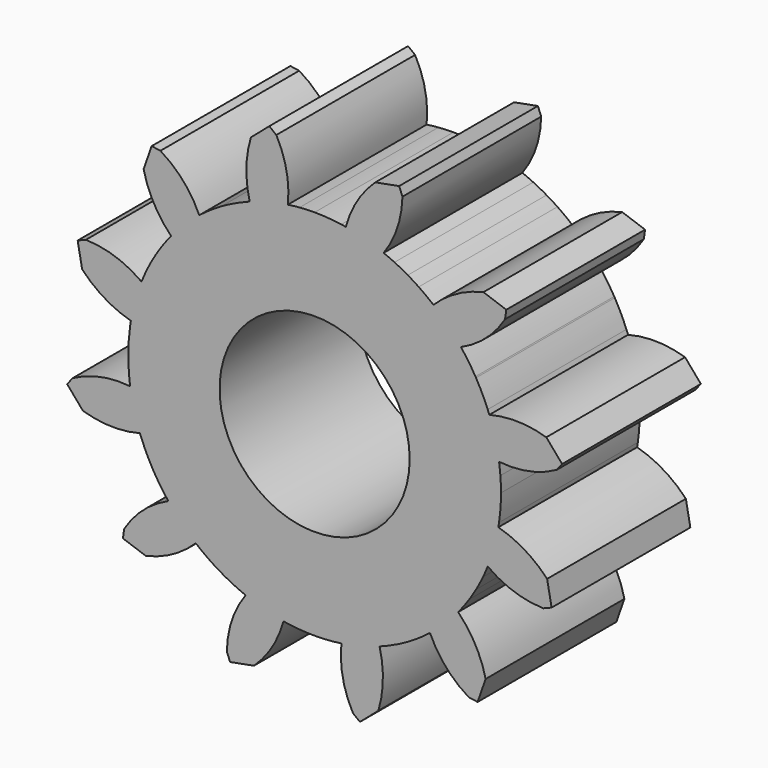
from build123d import *

# Parameters (mm, degrees)
F0_R     = 13.7004804212
F1_DEPTH = 25
F2_COUNT = 12


with BuildPart() as f1:
    # F0 (on Front) → F1 (new body)
    with BuildSketch(Plane.XZ):
        with BuildLine():
            ThreePointArc((5.1877617459, 15.4656955182), (1.3348337551, 15.7425763881), (-2.5179670171, 15.4639308632))
            ThreePointArc((-2.5179670171, 15.4639308632), (-5.3039752447, 14.9076599703), (-8.0156462094, 14.0602405167))
            ThreePointArc((-8.0156462094, 14.0602405167), (-10.1642311279, 13.1537985607), (-12.2260978725, 12.064413551))
            ThreePointArc((-12.2260978725, 12.064413551), (-14.7363892101, 10.3996164513), (-17.044498214, 8.4642237758))
            ThreePointArc((-17.044498214, 8.4642237758), (-19.1213988999, 6.2825744141), (-20.9409732492, 3.8821037136))
            ThreePointArc((-20.9409732492, 3.8821037136), (-22.4803390837, 1.292998939), (-23.7201379517, -1.4521803764))
            ThreePointArc((-23.7201379517, -1.4521803764), (-24.6447786512, -4.3189119634), (-25.2426333118, -7.2711450539))
            ThreePointArc((-25.2426333118, -7.2711450539), (-25.5061835733, -10.2717538785), (-25.4321150685, -13.2830037711))
            ThreePointArc((-25.4321150685, -13.2830037711), (-25.0213593458, -16.2670260316), (-24.2790819112, -19.1862953452))
            ThreePointArc((-24.2790819112, -19.1862953452), (-23.2146169595, -22.0041010545), (-21.8413509371, -24.6850067))
            ThreePointArc((-21.8413509371, -24.6850067), (-20.1765542068, -27.195297335), (-18.2411620449, -29.5034057391))
            ThreePointArc((-18.2411620449, -29.5034057391), (-16.0595125704, -31.5803065899), (-13.6590417261, -33.3998810729))
            ThreePointArc((-13.6590417261, -33.3998810729), (-11.0699368198, -34.9392469858), (-8.3247573578, -36.1790459013))
            ThreePointArc((-8.3247573578, -36.1790459013), (-5.4580256945, -37.1036865942), (-2.5057925274, -37.701541232))
            ThreePointArc((-2.5057925274, -37.701541232), (0.494815816, -37.9650914367), (3.5060652253, -37.8910229838))
            ThreePointArc((3.5060652253, -37.8910229838), (6.490087912, -37.4802672463), (9.4093576356, -36.7379897032))
            ThreePointArc((9.4093576356, -36.7379897032), (12.2271632206, -35.6735247759), (14.9080687518, -34.3002588042))
            ThreePointArc((14.9080687518, -34.3002588042), (17.418359676, -32.6354618578), (19.7264683173, -30.7000694179))
            ThreePointArc((19.7264683173, -30.7000694179), (21.8033689519, -28.5184200728), (23.6229432563, -26.1179493978))
            ThreePointArc((23.6229432563, -26.1179493978), (25.1623091778, -23.5288444178), (26.4021080868, -20.7836648785))
            ThreePointArc((26.4021080868, -20.7836648785), (27.3267486462, -17.9169335612), (27.9246032308, -14.9647007613))
            ThreePointArc((27.9246032308, -14.9647007613), (28.132175105, -13.0462877166), (28.2014849595, -11.1179229076))
            ThreePointArc((28.2014849595, -11.1179229076), (28.1796260721, -10.0345007945), (28.1140849874, -8.9528420441))
            ThreePointArc((28.1140849874, -8.9528420441), (27.7033292139, -5.9688195233), (26.9610516709, -3.0495499642))
            ThreePointArc((26.9610516709, -3.0495499642), (25.8965868926, -0.2317447927), (24.5233211592, 2.4491603668))
            ThreePointArc((24.5233211592, 2.4491603668), (22.8585242407, 4.9594513659), (20.923131816, 7.2675600815))
            ThreePointArc((20.923131816, 7.2675600815), (18.7414824625, 9.3444607976), (16.3410117658, 11.1640351765))
            ThreePointArc((16.3410117658, 11.1640351765), (13.7519066478, 12.703401218), (11.0067269497, 13.9432002123))
            ThreePointArc((11.0067269497, 13.9432002123), (8.1399951015, 14.867840913), (5.1877617459, 15.4656955182))
        make_face()
        with Locations((1.3409849595, -11.1179229076)):
            Circle(F0_R, mode=Mode.SUBTRACT)
        with BuildLine():
            ThreePointArc((-8.0156462094, 14.0602405167), (-5.3039752447, 14.9076599703), (-2.5179670171, 15.4639308632))
            ThreePointArc((-2.5179670171, 15.4639308632), (-2.7094878329, 19.7420226798), (-4.1807882522, 23.7637169608))
            Line((-4.1807882522, 23.7637169608), (-5.1883789909, 24.5569822892))
            Line((-5.1883789909, 24.5569822892), (-7.8406668751, 22.2773347298))
            ThreePointArc((-7.8406668751, 22.2773347298), (-8.4992599438, 18.1809490139), (-8.0156462094, 14.0602405167))
        make_face()
    extrude(amount=F1_DEPTH)

    # F2: F1 ×12 about axis
    f2_axis = Axis((1.3409849595, 0, -11.1179229076), (0, 1, 0))


with BuildPart() as f1_1:
    add(f1.part)
    for i in range(1, F2_COUNT):
        add(f1.part.rotate(f2_axis, i * 360 / F2_COUNT))


solid = f1_1.part
